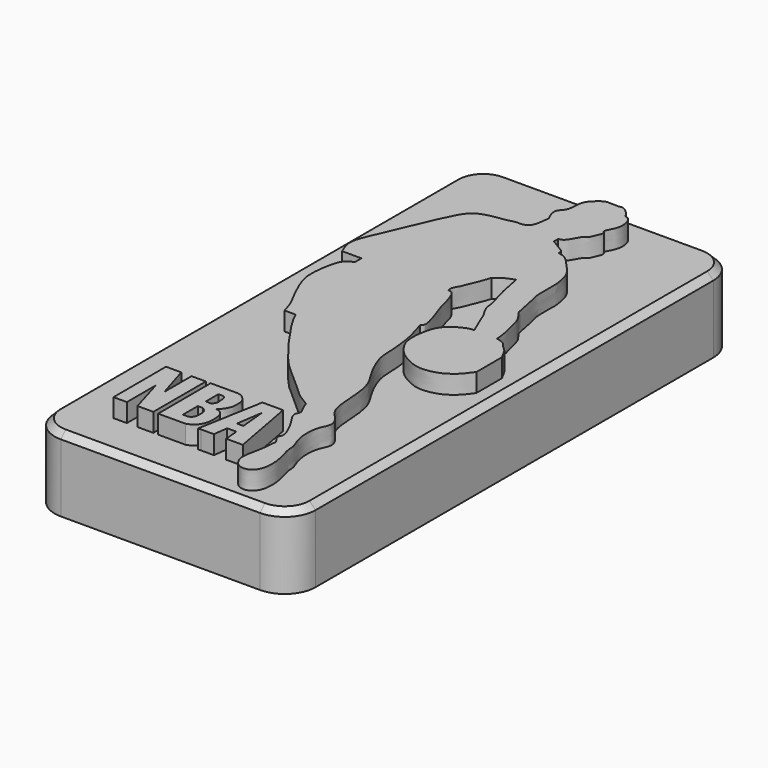
from build123d import *

# Parameters (mm, degrees)
F0_W     = 42.2986149788
F0_H     = 90.5954684317
F1_DEPTH = 12
F3_DEPTH = 15
F5_DEPTH = 15
F6_R     = 5
F7_SIZE  = 1


with BuildPart() as f1:
    # F0 (on Top) → F1 (new body)
    with BuildSketch(Plane.XY):
        with Locations((49.4557991624, 48.1699483842)):
            Rectangle(F0_W, F0_H)
    extrude(amount=F1_DEPTH)

    # F2 (on Top) → F3 (join)
    with BuildSketch(Plane.XY):
        Polygon((36.055687815, 20.7398366183), (36.0796526074, 10.0742857903), (38.2458940148, 10.0742857903), (38.2458940148, 15.9402880818), (39.9590022862, 10.0742857903), (42.5286628306, 10.0742857903), (42.5286628306, 20.7398366183), (40.2008518577, 20.7398366183), (40.2008518577, 15.2348913252), (38.5344102979, 20.7398366183), align=None)
        with BuildLine():
            Line((43.2978458703, 20.7398366183), (43.3218106627, 10.0742857903))
            Line((43.3218106627, 10.0742857903), (47.7480830089, 10.0842313337))
            add(Edge.make_bspline(
                [(47.7480830089, 10.0842313337), (48.1087432952, 10.2133146757), (48.8445935718, 10.4766816625), (49.563235782, 11.5558703614), (49.8236934521, 12.7384220174), (49.7863234473, 13.9018908494), (49.583610245, 14.8427504875), (49.1631987871, 15.2933041606), (48.8423188532, 15.5550943093), (48.4761063024, 15.6161931814), (48.2765883207, 15.6494807452)],
                knots=[0, 0, 0, 0, 0.1425587296, 0.290860637, 0.4380580574, 0.5831427066, 0.7130520112, 0.8150173707, 0.8992187439, 1, 1, 1, 1], degree=3))
            add(Edge.make_bspline(
                [(48.2765883207, 15.6494807452), (48.5021701057, 15.8512776922), (48.9842603055, 16.2825373816), (49.5676116966, 17.4245150242), (49.5223190759, 18.2955598828), (49.5531799121, 19.2233529283), (49.2401114472, 19.7813721648), (48.7309459351, 20.3115735576), (48.2972179184, 20.6397746913), (47.8887377352, 20.7057129682), (47.6773455739, 20.7398366183)],
                knots=[0, 0, 0, 0, 0.1367551799, 0.2922591113, 0.4245919618, 0.556870652, 0.668022351, 0.7871862686, 0.8898669838, 1, 1, 1, 1], degree=3))
            Line((47.6773455739, 20.7398366183), (43.2978458703, 20.7398366183))
        make_face()
        with BuildLine():
            Line((45.9417700768, 11.8108671159), (45.9417700768, 14.8345855996))
            Line((45.9417700768, 14.8345855996), (46.7864610255, 14.8444883525))
            add(Edge.make_bspline(
                [(46.7864610255, 11.8108671159), (46.9406402143, 11.8753830843), (47.2869743183, 12.0203058868), (47.5918784545, 12.8001326247), (47.5762787273, 13.6386001978), (47.473049455, 14.2723677593), (47.0004626411, 14.6509471882), (46.8490287918, 14.7879026192), (46.7864610255, 14.8444883525)],
                knots=[0, 0, 0, 0, 0.1546760263, 0.3474501542, 0.5487094974, 0.7203573696, 0.8844603446, 1, 1, 1, 1], degree=3))
            Line((46.7864610255, 11.8108671159), (45.9417700768, 11.8108671159))
        make_face(mode=Mode.SUBTRACT)
        with BuildLine():
            Line((45.9417700768, 16.4990946651), (45.9417700768, 18.9982168376))
            add(Edge.make_bspline(
                [(45.9417700768, 18.9982168376), (46.1360122209, 19.0087303933), (46.5128688139, 19.0291281437), (47.0820944715, 18.883156538), (47.2122556912, 18.3175496369), (47.2409681127, 17.6744307773), (47.3262858861, 17.0603896068), (47.0109601508, 16.620407197), (46.802475649, 16.4954691769), (46.7076301575, 16.4386313409)],
                knots=[0, 0, 0, 0, 0.1501636603, 0.2913382452, 0.4325130684, 0.5930284338, 0.7457593668, 0.8843387512, 1, 1, 1, 1], degree=3))
            Line((46.7076301575, 16.4386313409), (45.9417700768, 16.4386313409))
            Line((45.9417700768, 16.4386313409), (45.9417700768, 16.4990946651))
        make_face(mode=Mode.SUBTRACT)
        Polygon((51.7119988799, 20.7069336531), (49.7993193567, 10.0842313337), (50.2696111798, 10.0842313337), (52.3502913998, 10.0889064855), (52.6353046298, 12.4014830217), (54.1316716822, 12.4048452602), (54.3454475701, 10.0842313337), (57.024674611, 10.090251381), (55.0688118837, 20.7069336531), align=None)
        Polygon((53.8484301118, 14.1875470811), (52.8003275394, 14.1851920635), (53.4452609718, 18.4175763279), align=None, mode=Mode.SUBTRACT)
    extrude(amount=F3_DEPTH)

    # F4 (on Top) → F5 (join)
    with BuildSketch(Plane.XY):
        with BuildLine():
            add(Edge.make_bspline(
                [(56.1274066567, 84.2732414603), (56.229150813, 84.2232441252), (56.4728196772, 84.1035046305), (56.337121933, 83.3743911851), (56.050758006, 82.8990855071), (55.735074782, 81.8778771736), (55.2318611182, 81.6410828618), (55.0278927385, 81.5558828585), (54.5819046123, 80.7490916807), (54.2354535348, 80.115717472), (53.9106311277, 79.5688752382), (53.459832826, 79.200400918), (53.1140396141, 79.1386601146), (52.9446564615, 79.1084170341)],
                knots=[0, 0, 0, 0, 0.0678715229, 0.1625467004, 0.2565904937, 0.3775953815, 0.4611467181, 0.5152389074, 0.6265363414, 0.7320824569, 0.8257722511, 0.9146563773, 1, 1, 1, 1], degree=3))
            add(Edge.make_bspline(
                [(48.5117994249, 85.7447609305), (48.6469496875, 85.9571674987), (48.9866720729, 86.4910862982), (48.9038850486, 88.5010562955), (49.5663486287, 89.68028046), (50.9161907397, 90.7543644916), (51.4699772054, 90.9644540583), (53.3709341076, 90.7423414962), (54.0367859485, 91.1058383591), (55.4337685105, 89.9237017684), (55.6794565063, 89.1517941773), (56.5448827463, 89.1463395572), (57.1479157196, 87.3245317916), (56.8134211427, 85.7650075433), (56.1793082134, 84.838163683), (56.1425816052, 84.4384131075), (56.1274066567, 84.2732414603)],
                knots=[0, 0, 0, 0, 0.0607238925, 0.1526394785, 0.2316409614, 0.3155538267, 0.3686193295, 0.4575232383, 0.5144833492, 0.5997123459, 0.6573963946, 0.710626782, 0.7975625835, 0.8831475775, 0.9517181255, 1, 1, 1, 1], degree=3))
            add(Edge.make_bspline(
                [(48.5117994249, 82.7716514468), (48.3253370148, 83.1147899129), (47.9579360329, 83.7909015716), (47.7830903551, 84.9959305551), (48.2737616328, 85.5001503766), (48.5117994249, 85.7447609305)],
                knots=[0, 0, 0, 0, 0.3466578766, 0.6830462194, 1, 1, 1, 1], degree=3))
            add(Edge.make_bspline(
                [(44.6238927543, 79.0743306279), (45.0678377382, 79.2119030304), (45.9022370131, 79.4704718104), (46.9457667893, 79.2902889335), (47.9972958068, 79.8875932357), (48.2822577875, 80.9753305346), (48.4285661518, 82.1202939381), (48.5117994249, 82.7716514468)],
                knots=[0, 0, 0, 0, 0.2064870059, 0.3880945032, 0.5722594574, 0.7566629524, 1, 1, 1, 1], degree=3))
            add(Edge.make_bspline(
                [(33.6843840778, 59.4041906297), (33.3236561867, 60.2091792984), (32.5245859689, 61.9923584948), (34.1884782365, 65.6413982415), (36.7620644165, 71.8239236442), (38.5557237668, 75.8317677655), (40.1565984725, 78.4540093607), (43.021497989, 78.8518246794), (44.6238927543, 79.0743306279)],
                knots=[0, 0, 0, 0, 0.1335812846, 0.295904001, 0.5142379473, 0.6895913514, 0.8263823248, 1, 1, 1, 1], degree=3))
            add(Edge.make_bspline(
                [(36.8099585176, 59.4041906297), (35.768100371, 59.4041906297), (34.7262422244, 59.4041906297), (33.6843840778, 59.4041906297)],
                knots=[0, 0, 0, 0, 3.1255744398, 3.1255744398, 3.1255744398, 3.1255744398], degree=3))
            add(Edge.make_bspline(
                [(36.8099585176, 58.1101104617), (36.8099585176, 58.5414705177), (36.8099585176, 58.9728305737), (36.8099585176, 59.4041906297)],
                knots=[0, 0, 0, 0, 1.294080168, 1.294080168, 1.294080168, 1.294080168], degree=3))
            add(Edge.make_bspline(
                [(38.1535254419, 42.1514213085), (37.964734184, 42.8242763665), (37.570981414, 44.227617527), (36.2708094893, 46.4057030885), (35.2836998167, 48.6725748714), (34.2775504693, 51.1453953212), (34.6121438995, 54.4412539523), (35.0155671566, 56.1512391648), (35.3633174087, 57.1109704817), (36.0702608142, 57.7202583433), (36.5659293702, 57.9814967326), (36.8099585176, 58.1101104617)],
                knots=[0, 0, 0, 0, 0.119530632, 0.2492992419, 0.3777800361, 0.5114139792, 0.659596532, 0.7680274336, 0.8480065227, 0.9251700795, 1, 1, 1, 1], degree=3))
            add(Edge.make_bspline(
                [(39.9484522641, 42.1514213085), (39.3501433233, 42.1514213085), (38.7518343826, 42.1514213085), (38.1535254419, 42.1514213085)],
                knots=[0, 0, 0, 0, 1.7949268222, 1.7949268222, 1.7949268222, 1.7949268222], degree=3))
            add(Edge.make_bspline(
                [(56.2475062907, 23.8620564342), (55.5399831894, 24.2778751794), (53.9359586469, 25.2205772219), (50.925816745, 28.3079001133), (48.166823337, 30.3397937613), (45.4486732402, 33.7108027293), (43.081021028, 36.901975711), (40.6645705609, 40.5738351364), (40.1464204861, 41.7153035178), (39.9484522641, 42.1514213085)],
                knots=[0, 0, 0, 0, 0.1247930748, 0.2829181892, 0.4271026449, 0.5841692073, 0.7419094967, 0.9013920473, 1, 1, 1, 1], degree=3))
            add(Edge.make_bspline(
                [(59.8058067262, 13.3231272921), (59.6625880268, 13.5368829578), (59.3859600903, 13.9497535466), (58.9671709632, 14.6559764583), (59.7242496445, 15.316849637), (58.1778261411, 18.497969213), (57.1482264935, 19.8137645232), (56.763603565, 20.9356493301), (57.4158210202, 21.571715386), (56.6003394853, 22.795895389), (56.363025574, 23.5129901851), (56.2475062907, 23.8620564342)],
                knots=[0, 0, 0, 0, 0.09047671, 0.174756409, 0.2611657544, 0.4462167365, 0.5866525422, 0.6876178608, 0.7731944468, 0.8895959584, 1, 1, 1, 1], degree=3))
            add(Edge.make_bspline(
                [(54.0490709245, 49.7674196959), (54.2881416796, 48.9979063909), (54.7673477222, 47.4554532983), (55.2859243125, 45.1501885877), (55.576518189, 41.8977237006), (55.5189988709, 39.451282432), (57.4315939992, 35.4223904644), (59.149808107, 33.1623634852), (59.7214110473, 29.0406460385), (59.7557137094, 24.656157763), (61.8966826758, 23.0250907296), (62.4816541062, 21.3146068378), (61.670330521, 19.9720390649), (61.3374602645, 18.5702162768), (61.3346935347, 15.8815449957), (62.3955748518, 13.849392268), (62.2788498806, 12.6350272206), (62.9934405789, 10.3645817246), (63.2331954926, 8.910953426), (63.2013293625, 6.5470696984), (61.9218426051, 5.0362243272), (60.1645149785, 5.1521622064), (59.3252805866, 6.2647466421), (58.9029210092, 7.2777609555), (59.2330864876, 9.2596744779), (59.6741291444, 11.288143178), (59.7623285197, 12.6512022887), (59.8058067262, 13.3231272921)],
                knots=[0, 0, 0, 0, 0.0417241682, 0.0836341254, 0.1316627898, 0.174599741, 0.230322024, 0.2761564092, 0.3308216225, 0.3865756814, 0.4289904194, 0.4630515556, 0.4953073781, 0.5277726799, 0.5719570529, 0.612008468, 0.6416955861, 0.6823291141, 0.7163070314, 0.7568548303, 0.7929029318, 0.8261350928, 0.8567554195, 0.8844701892, 0.9220511034, 0.9615748046, 1, 1, 1, 1], degree=3))
            add(Edge.make_bspline(
                [(50.9137362242, 59.4041906297), (51.1284558845, 59.409710155), (51.7244788516, 59.4250313597), (52.5840727882, 57.1490585766), (52.8109390015, 55.3813674983), (54.8878641952, 50.3197930094), (54.227203546, 49.8847259617), (54.0490709245, 49.7674196959)],
                knots=[0, 0, 0, 0, 0.1183675435, 0.3285669062, 0.5505454316, 0.8788144555, 1, 1, 1, 1], degree=3))
            add(Edge.make_bspline(
                [(53.0295148492, 65.5224397779), (52.8961426222, 65.0854871557), (52.6193233359, 64.1785748573), (51.906634596, 62.7359839627), (51.4621298575, 61.2192588591), (50.6767924283, 60.16833199), (50.8419335356, 59.6357535787), (50.9137362242, 59.4041906297)],
                knots=[0, 0, 0, 0, 0.2079878159, 0.4316868662, 0.6560517968, 0.850452706, 1, 1, 1, 1], degree=3))
            add(Edge.make_bspline(
                [(55.7786822319, 67.0452564955), (55.2677625546, 66.8700291624), (54.2520460835, 66.5216744283), (53.4353842761, 65.8541767376), (53.0295148492, 65.5224397779)],
                knots=[0, 0, 0, 0, 0.5030140711, 1, 1, 1, 1], degree=3))
            add(Edge.make_bspline(
                [(60.2642968297, 52.9403164983), (59.872435557, 53.8018123936), (59.1805324297, 55.3229417974), (58.7810376942, 56.763240062), (57.5127611075, 58.5559726591), (57.5481410268, 59.992795687), (56.6404201597, 62.7109370089), (56.2353636559, 64.5806834856), (55.9877441007, 65.9760150978), (55.8454322901, 66.7038650887), (55.7786822319, 67.0452564955)],
                knots=[0, 0, 0, 0, 0.1500954194, 0.2650210605, 0.3969880528, 0.5088074979, 0.664410433, 0.7954547666, 0.9040599219, 1, 1, 1, 1], degree=3))
            add(Edge.make_bspline(
                [(67.6454603672, 44.1778004169), (67.4223852159, 43.8579821739), (66.9684239748, 43.2071473063), (66.1477847809, 42.2640284265), (64.5162904862, 41.0311962582), (62.4923639178, 40.5457755901), (60.7762532947, 40.4988350123), (59.1365508246, 41.2166768383), (57.315819026, 42.2070439392), (56.0413172868, 43.9220474765), (55.4242907646, 45.2056673549), (55.3222196084, 47.0972507299), (55.6122495545, 48.933749853), (56.3046504615, 51.2252053655), (58.7990204965, 52.716867493), (59.8954136716, 52.9621077619), (60.1675446491, 52.9460319999), (60.2642968297, 52.9403164983)],
                knots=[0, 0, 0, 0, 0.0559255275, 0.1138092778, 0.1874407043, 0.2623868599, 0.3293893084, 0.397921391, 0.4729288985, 0.547758991, 0.6094476985, 0.6793049214, 0.7504676027, 0.8296890274, 0.9169619004, 0.9704770207, 1, 1, 1, 1], degree=3))
            add(Edge.make_bspline(
                [(67.6454603672, 49.3339374661), (67.6454603672, 47.6152251164), (67.6454603672, 45.8965127667), (67.6454603672, 44.1778004169)],
                knots=[0, 0, 0, 0, 5.1561370492, 5.1561370492, 5.1561370492, 5.1561370492], degree=3))
            add(Edge.make_bspline(
                [(63.9295130968, 52.9403164983), (64.4604331246, 52.8095907488), (65.3875536965, 52.581310546), (65.7539028687, 51.7535894609), (66.6526891441, 51.2096400708), (67.1756216, 50.1794845246), (67.4931836392, 49.6079828376), (67.6454603672, 49.3339374661)],
                knots=[0, 0, 0, 0, 0.2339378132, 0.4085145556, 0.6024973616, 0.8093903122, 1, 1, 1, 1], degree=3))
            add(Edge.make_bspline(
                [(52.9446564615, 78.2507956028), (53.905468965, 77.6972364463), (55.2249836238, 76.9370158841), (55.4707438883, 76.5318356198), (55.3131929976, 76.0671122663), (56.2131584635, 76.0147495003), (57.1161926838, 75.4054620431), (58.1138900613, 74.3151742365), (59.5268818087, 72.784529762), (60.1292260345, 71.4891369468), (60.4194475775, 69.8148671068), (60.5284566986, 69.041515966), (60.3866747662, 65.5641834908), (60.7188130672, 64.5212290476), (60.9640072183, 63.5261894968), (61.1751197865, 62.3936975545), (61.495949214, 61.0367464766), (61.5204186005, 60.2053585764), (62.5500915557, 59.1305057738), (63.0507101891, 57.8528536092), (63.4001586868, 56.1606383829), (63.7536008661, 55.1402663712), (63.9760133872, 53.3209910689), (63.9404960848, 53.0302287158), (63.9295130968, 52.9403164983)],
                knots=[0, 0, 0, 0, 0.0669753564, 0.0919794072, 0.1150317809, 0.1493841691, 0.1921459315, 0.2422148352, 0.3007231791, 0.3505223752, 0.4013925481, 0.4401049505, 0.5149227044, 0.559139721, 0.5986936505, 0.6432638733, 0.6910598406, 0.7276470502, 0.7755321761, 0.8243903324, 0.8768076806, 0.9216482141, 0.9757713379, 1, 1, 1, 1], degree=3))
            add(Edge.make_bspline(
                [(52.9446564615, 79.1084170341), (52.9446564615, 78.8225432237), (52.9446564615, 78.5366694132), (52.9446564615, 78.2507956028)],
                knots=[0, 0, 0, 0, 0.8576214314, 0.8576214314, 0.8576214314, 0.8576214314], degree=3))
        make_face()
    extrude(amount=F5_DEPTH)

    # F6
    f6_edges = [f1.edges().sort_by_distance(p)[0] for p in [
        (28.306492, 93.467683, 6),
        (70.605107, 93.467683, 6),
        (28.306492, 2.872214, 6),
        (70.605107, 2.872214, 6),
    ]]
    fillet(f6_edges, radius=F6_R)

    # F7
    f7_edges = [f1.edges().sort_by_distance(p)[0] for p in [
        (28.306492, 48.169948, 12),
    ]]
    chamfer(f7_edges, length=F7_SIZE)


solid = f1.part
